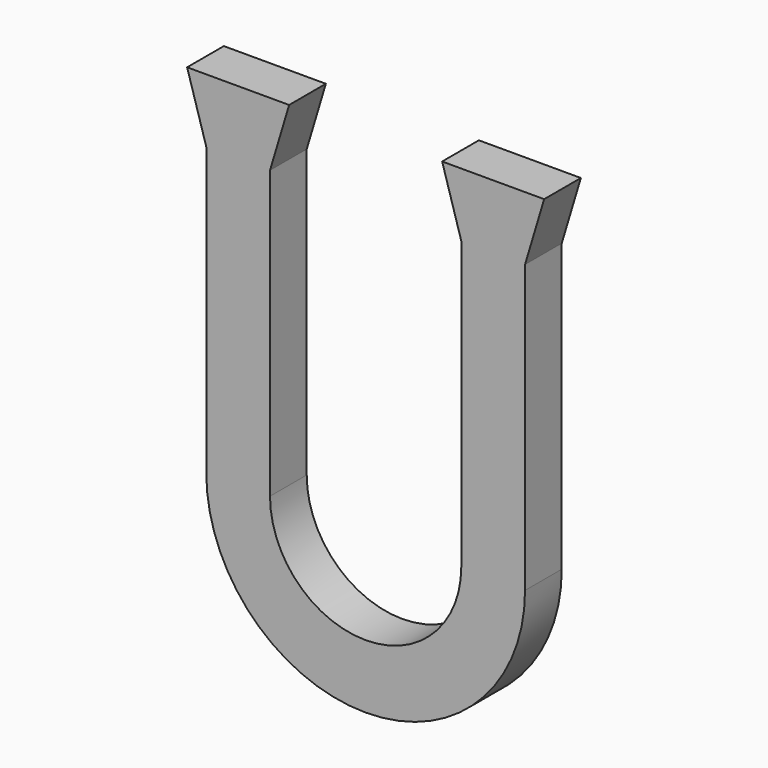
from build123d import *

# Parameters (mm, degrees)
F1_DEPTH = 4.572


with BuildPart() as f1:
    # F0 (on Front) → F1 (new body)
    with BuildSketch(Plane.XZ):
        with BuildLine():
            Line((-15.875, 28.575), (-15.875, 0))
            ThreePointArc((-15.875, 0), (0, -15.875), (15.875, 0))
            Line((15.875, 0), (15.875, 28.575))
            Line((15.875, 28.575), (17.78, 34.925))
            Line((17.78, 34.925), (15.875, 34.925))
            Line((15.875, 34.925), (9.525, 34.925))
            Line((9.525, 34.925), (7.62, 34.925))
            Line((7.62, 34.925), (9.525, 28.575))
            Line((9.525, 28.575), (9.525, 0))
            ThreePointArc((9.525, 0), (0, -9.525), (-9.525, 0))
            Line((-9.525, 0), (-9.525, 28.575))
            Line((-9.525, 28.575), (-7.62, 34.925))
            Line((-7.62, 34.925), (-9.525, 34.925))
            Line((-9.525, 34.925), (-15.875, 34.925))
            Line((-15.875, 34.925), (-17.78, 34.925))
            Line((-17.78, 34.925), (-15.875, 28.575))
        make_face()
    extrude(amount=F1_DEPTH)


solid = f1.part
